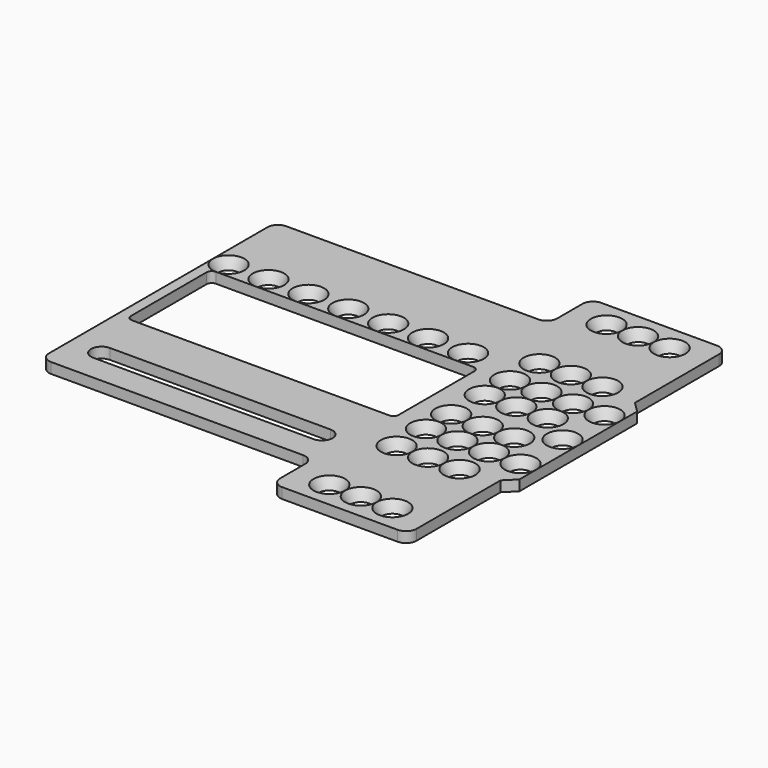
from build123d import *

# Parameters (mm, degrees)
SKETCH051_R             = 1
SKETCH050_R             = 1.5
SKETCH049_R             = 1
SKETCH048_R             = 1.5
SKETCH053_R             = 1
SKETCH052_R             = 1.5
SKETCH009_R             = 1
SKETCH008_R             = 1.5
LOFT004_PLACEMENT_ANGLE = 90
SKETCH011_R             = 1
SKETCH010_R             = 1.5
SKETCH012_R             = 1
SKETCH015_R             = 1.5
SKETCH017_R             = 1
SKETCH016_R             = 1.5
SKETCH014_R             = 1
SKETCH013_R             = 1.5
LOFT006_PLACEMENT_ANGLE = 90
SKETCH044_R             = 1
SKETCH047_R             = 1.5
SKETCH046_R             = 1
SKETCH045_R             = 1.5
SKETCH043_R             = 1
SKETCH042_R             = 1.5
LOFT021_PLACEMENT_ANGLE = 90
SKETCH039_R             = 1
SKETCH038_R             = 1.5
SKETCH035_R             = 1
SKETCH034_R             = 1.5
SKETCH041_R             = 1
SKETCH040_R             = 1.5
LOFT020_PLACEMENT_ANGLE = 90
SKETCH032_R             = 1
SKETCH037_R             = 1.5
SKETCH036_R             = 1
SKETCH033_R             = 1.5
SKETCH031_R             = 1
SKETCH030_R             = 1.5
LOFT015_PLACEMENT_ANGLE = 90
SKETCH027_R             = 1
SKETCH026_R             = 1.5
SKETCH025_R             = 1
SKETCH024_R             = 1.5
SKETCH029_R             = 1
SKETCH028_R             = 1.5
LOFT014_PLACEMENT_ANGLE = 90
SKETCH021_R             = 1
SKETCH020_R             = 1.5
SKETCH023_R             = 1
SKETCH022_R             = 1.5
SKETCH019_R             = 1
SKETCH018_R             = 1.5
LOFT009_PLACEMENT_ANGLE = 90
SKETCH007_R             = 1
SKETCH004_R             = 1.5
SKETCH001_R             = 1
SKETCH_R                = 1.5
SKETCH003_R             = 1
SKETCH002_R             = 1.5
LOFT001_PLACEMENT_ANGLE = 90
SKETCH006_R             = 1
SKETCH005_R             = 1.5
SKETCH075_R             = 1
SKETCH083_R             = 1.5
LOFT036_PLACEMENT_ANGLE = 90
SKETCH079_R             = 1
SKETCH078_R             = 1.5
LOFT037_PLACEMENT_ANGLE = 90
SKETCH074_R             = 1
SKETCH073_R             = 1.5
LOFT038_PLACEMENT_ANGLE = 90
SKETCH080_R             = 1
SKETCH076_R             = 1.5
LOFT039_PLACEMENT_ANGLE = 90
SKETCH082_R             = 1
SKETCH081_R             = 1.5
LOFT040_PLACEMENT_ANGLE = 90
SKETCH071_R             = 1
SKETCH070_R             = 1.5
LOFT034_PLACEMENT_ANGLE = 90
SKETCH077_R             = 1
SKETCH072_R             = 1.5
LOFT035_PLACEMENT_ANGLE = 90
EXTRUDE001_DEPTH        = 1
EXTRUDE003_DEPTH        = 1
EXTRUDE002_DEPTH        = 1
CUT010_PLACEMENT_ANGLE  = 180


with BuildPart() as loft094:
    # Sketch051 → Loft025 section 0
    with BuildSketch(Plane.XY):
        with Locations((2, 2)):
            Circle(SKETCH051_R)
    # Sketch050 → Loft025 section 1
    with BuildSketch(Plane.XY.offset(1)):
        with Locations((2, 2)):
            Circle(SKETCH050_R)
    loft()


with BuildPart() as loft094_1:
    # Loft025 placement: moved
    add(loft094.part.moved(Location((-1.5, 22, 0))))


with BuildPart() as loft093:
    # Sketch049 → Loft024 section 0
    with BuildSketch(Plane.XY):
        with Locations((2, 2)):
            Circle(SKETCH049_R)
    # Sketch048 → Loft024 section 1
    with BuildSketch(Plane.XY.offset(1)):
        with Locations((2, 2)):
            Circle(SKETCH048_R)
    loft()


with BuildPart() as loft093_1:
    # Loft024 placement: moved
    add(loft093.part.moved(Location((-1.5, 12, 0))))


with BuildPart() as fusion004:
    # Sketch053 → Loft026 section 0
    with BuildSketch(Plane.XY):
        with Locations((2, 2)):
            Circle(SKETCH053_R)
    # Sketch052 → Loft026 section 1
    with BuildSketch(Plane.XY.offset(1)):
        with Locations((2, 2)):
            Circle(SKETCH052_R)
    loft()


with BuildPart() as fusion004_1:
    # Loft026 placement: moved
    add(fusion004.part.moved(Location((-1.5, 17, 0))))

    # Fusion004: union Loft094, Loft093
    add(loft094_1.part)
    add(loft093_1.part)


with BuildPart() as loft074:
    # Sketch009 → Loft004 section 0
    with BuildSketch(Plane.XY):
        with Locations((2, 2)):
            Circle(SKETCH009_R)
    # Sketch008 → Loft004 section 1
    with BuildSketch(Plane.XY.offset(1)):
        with Locations((2, 2)):
            Circle(SKETCH008_R)
    loft()


with BuildPart() as loft074_1:
    # Loft004 placement: moved
    add(loft074.part.moved(Location((11.502, 33.5, 0))).rotate(Axis((11.502, 33.5, 0), (0, 0, 1)), LOFT004_PLACEMENT_ANGLE))


with BuildPart() as loft005:
    # Sketch011 → Loft005 section 0
    with BuildSketch(Plane.XY):
        with Locations((2, 2)):
            Circle(SKETCH011_R)
    # Sketch010 → Loft005 section 1
    with BuildSketch(Plane.XY.offset(1)):
        with Locations((2, 2)):
            Circle(SKETCH010_R)
    loft()


with BuildPart() as loft005_1:
    # Loft005 placement: moved
    add(loft005.part.moved(Location((1.5, 33.5, 0))))


with BuildPart() as loft076:
    # Sketch012 → Loft007 section 0
    with BuildSketch(Plane.XY):
        with Locations((2, 2)):
            Circle(SKETCH012_R)
    # Sketch015 → Loft007 section 1
    with BuildSketch(Plane.XY.offset(1)):
        with Locations((2, 2)):
            Circle(SKETCH015_R)
    loft()


with BuildPart() as loft076_1:
    # Loft007 placement: moved
    add(loft076.part.moved(Location((1.5, 25.5, 0))))


with BuildPart() as loft077:
    # Sketch017 → Loft008 section 0
    with BuildSketch(Plane.XY):
        with Locations((2, 2)):
            Circle(SKETCH017_R)
    # Sketch016 → Loft008 section 1
    with BuildSketch(Plane.XY.offset(1)):
        with Locations((2, 2)):
            Circle(SKETCH016_R)
    loft()


with BuildPart() as loft077_1:
    # Loft008 placement: moved
    add(loft077.part.moved(Location((4.501, 25.5, 0))))


with BuildPart() as loft075:
    # Sketch014 → Loft006 section 0
    with BuildSketch(Plane.XY):
        with Locations((2, 2)):
            Circle(SKETCH014_R)
    # Sketch013 → Loft006 section 1
    with BuildSketch(Plane.XY.offset(1)):
        with Locations((2, 2)):
            Circle(SKETCH013_R)
    loft()


with BuildPart() as loft075_1:
    # Loft006 placement: moved
    add(loft075.part.moved(Location((11.502, 25.5, 0))).rotate(Axis((11.502, 25.5, 0), (0, 0, 1)), LOFT006_PLACEMENT_ANGLE))


with BuildPart() as loft092:
    # Sketch044 → Loft023 section 0
    with BuildSketch(Plane.XY):
        with Locations((2, 2)):
            Circle(SKETCH044_R)
    # Sketch047 → Loft023 section 1
    with BuildSketch(Plane.XY.offset(1)):
        with Locations((2, 2)):
            Circle(SKETCH047_R)
    loft()


with BuildPart() as loft092_1:
    # Loft023 placement: moved
    add(loft092.part.moved(Location((1.5, 22, 0))))


with BuildPart() as loft091:
    # Sketch046 → Loft022 section 0
    with BuildSketch(Plane.XY):
        with Locations((2, 2)):
            Circle(SKETCH046_R)
    # Sketch045 → Loft022 section 1
    with BuildSketch(Plane.XY.offset(1)):
        with Locations((2, 2)):
            Circle(SKETCH045_R)
    loft()


with BuildPart() as loft091_1:
    # Loft022 placement: moved
    add(loft091.part.moved(Location((4.501, 22, 0))))


with BuildPart() as loft090:
    # Sketch043 → Loft021 section 0
    with BuildSketch(Plane.XY):
        with Locations((2, 2)):
            Circle(SKETCH043_R)
    # Sketch042 → Loft021 section 1
    with BuildSketch(Plane.XY.offset(1)):
        with Locations((2, 2)):
            Circle(SKETCH042_R)
    loft()


with BuildPart() as loft090_1:
    # Loft021 placement: moved
    add(loft090.part.moved(Location((11.503, 22, 0))).rotate(Axis((11.503, 22, 0), (0, 0, 1)), LOFT021_PLACEMENT_ANGLE))


with BuildPart() as loft088:
    # Sketch039 → Loft019 section 0
    with BuildSketch(Plane.XY):
        with Locations((2, 2)):
            Circle(SKETCH039_R)
    # Sketch038 → Loft019 section 1
    with BuildSketch(Plane.XY.offset(1)):
        with Locations((2, 2)):
            Circle(SKETCH038_R)
    loft()


with BuildPart() as loft088_1:
    # Loft019 placement: moved
    add(loft088.part.moved(Location((1.5, 18.999, 0))))


with BuildPart() as loft087:
    # Sketch035 → Loft018 section 0
    with BuildSketch(Plane.XY):
        with Locations((2, 2)):
            Circle(SKETCH035_R)
    # Sketch034 → Loft018 section 1
    with BuildSketch(Plane.XY.offset(1)):
        with Locations((2, 2)):
            Circle(SKETCH034_R)
    loft()


with BuildPart() as loft087_1:
    # Loft018 placement: moved
    add(loft087.part.moved(Location((4.501, 18.999, 0))))


with BuildPart() as loft089:
    # Sketch041 → Loft020 section 0
    with BuildSketch(Plane.XY):
        with Locations((2, 2)):
            Circle(SKETCH041_R)
    # Sketch040 → Loft020 section 1
    with BuildSketch(Plane.XY.offset(1)):
        with Locations((2, 2)):
            Circle(SKETCH040_R)
    loft()


with BuildPart() as loft089_1:
    # Loft020 placement: moved
    add(loft089.part.moved(Location((11.502, 18.999, 0))).rotate(Axis((11.502, 18.999, 0), (0, 0, 1)), LOFT020_PLACEMENT_ANGLE))


with BuildPart() as loft086:
    # Sketch032 → Loft017 section 0
    with BuildSketch(Plane.XY):
        with Locations((2, 2)):
            Circle(SKETCH032_R)
    # Sketch037 → Loft017 section 1
    with BuildSketch(Plane.XY.offset(1)):
        with Locations((2, 2)):
            Circle(SKETCH037_R)
    loft()


with BuildPart() as loft086_1:
    # Loft017 placement: moved
    add(loft086.part.moved(Location((1.5, 15.001, 0))))


with BuildPart() as loft085:
    # Sketch036 → Loft016 section 0
    with BuildSketch(Plane.XY):
        with Locations((2, 2)):
            Circle(SKETCH036_R)
    # Sketch033 → Loft016 section 1
    with BuildSketch(Plane.XY.offset(1)):
        with Locations((2, 2)):
            Circle(SKETCH033_R)
    loft()


with BuildPart() as loft085_1:
    # Loft016 placement: moved
    add(loft085.part.moved(Location((4.501, 15.001, 0))))


with BuildPart() as loft084:
    # Sketch031 → Loft015 section 0
    with BuildSketch(Plane.XY):
        with Locations((2, 2)):
            Circle(SKETCH031_R)
    # Sketch030 → Loft015 section 1
    with BuildSketch(Plane.XY.offset(1)):
        with Locations((2, 2)):
            Circle(SKETCH030_R)
    loft()


with BuildPart() as loft084_1:
    # Loft015 placement: moved
    add(loft084.part.moved(Location((11.502, 15.001, 0))).rotate(Axis((11.502, 15.001, 0), (0, 0, 1)), LOFT015_PLACEMENT_ANGLE))


with BuildPart() as loft082:
    # Sketch027 → Loft013 section 0
    with BuildSketch(Plane.XY):
        with Locations((2, 2)):
            Circle(SKETCH027_R)
    # Sketch026 → Loft013 section 1
    with BuildSketch(Plane.XY.offset(1)):
        with Locations((2, 2)):
            Circle(SKETCH026_R)
    loft()


with BuildPart() as loft082_1:
    # Loft013 placement: moved
    add(loft082.part.moved(Location((1.5, 12, 0))))


with BuildPart() as loft081:
    # Sketch025 → Loft012 section 0
    with BuildSketch(Plane.XY):
        with Locations((2, 2)):
            Circle(SKETCH025_R)
    # Sketch024 → Loft012 section 1
    with BuildSketch(Plane.XY.offset(1)):
        with Locations((2, 2)):
            Circle(SKETCH024_R)
    loft()


with BuildPart() as loft081_1:
    # Loft012 placement: moved
    add(loft081.part.moved(Location((4.501, 12, 0))))


with BuildPart() as loft083:
    # Sketch029 → Loft014 section 0
    with BuildSketch(Plane.XY):
        with Locations((2, 2)):
            Circle(SKETCH029_R)
    # Sketch028 → Loft014 section 1
    with BuildSketch(Plane.XY.offset(1)):
        with Locations((2, 2)):
            Circle(SKETCH028_R)
    loft()


with BuildPart() as loft083_1:
    # Loft014 placement: moved
    add(loft083.part.moved(Location((11.502, 12, 0))).rotate(Axis((11.502, 12, 0), (0, 0, 1)), LOFT014_PLACEMENT_ANGLE))


with BuildPart() as loft079:
    # Sketch021 → Loft010 section 0
    with BuildSketch(Plane.XY):
        with Locations((2, 2)):
            Circle(SKETCH021_R)
    # Sketch020 → Loft010 section 1
    with BuildSketch(Plane.XY.offset(1)):
        with Locations((2, 2)):
            Circle(SKETCH020_R)
    loft()


with BuildPart() as loft079_1:
    # Loft010 placement: moved
    add(loft079.part.moved(Location((1.5, 8.5, 0))))


with BuildPart() as loft080:
    # Sketch023 → Loft011 section 0
    with BuildSketch(Plane.XY):
        with Locations((2, 2)):
            Circle(SKETCH023_R)
    # Sketch022 → Loft011 section 1
    with BuildSketch(Plane.XY.offset(1)):
        with Locations((2, 2)):
            Circle(SKETCH022_R)
    loft()


with BuildPart() as loft080_1:
    # Loft011 placement: moved
    add(loft080.part.moved(Location((4.501, 8.5, 0))))


with BuildPart() as loft078:
    # Sketch019 → Loft009 section 0
    with BuildSketch(Plane.XY):
        with Locations((2, 2)):
            Circle(SKETCH019_R)
    # Sketch018 → Loft009 section 1
    with BuildSketch(Plane.XY.offset(1)):
        with Locations((2, 2)):
            Circle(SKETCH018_R)
    loft()


with BuildPart() as loft078_1:
    # Loft009 placement: moved
    add(loft078.part.moved(Location((11.502, 8.5, 0))).rotate(Axis((11.502, 8.5, 0), (0, 0, 1)), LOFT009_PLACEMENT_ANGLE))


with BuildPart() as loft072:
    # Sketch007 → Loft002 section 0
    with BuildSketch(Plane.XY):
        with Locations((2, 2)):
            Circle(SKETCH007_R)
    # Sketch004 → Loft002 section 1
    with BuildSketch(Plane.XY.offset(1)):
        with Locations((2, 2)):
            Circle(SKETCH004_R)
    loft()


with BuildPart() as loft072_1:
    # Loft002 placement: moved
    add(loft072.part.moved(Location((1.5, 0.5, 0))))


with BuildPart() as loft070:
    # Sketch001 → Loft section 0
    with BuildSketch(Plane.XY):
        with Locations((2, 2)):
            Circle(SKETCH001_R)
    # Sketch → Loft section 1
    with BuildSketch(Plane.XY.offset(1)):
        with Locations((2, 2)):
            Circle(SKETCH_R)
    loft()


with BuildPart() as loft070_1:
    # Loft placement: moved
    add(loft070.part.moved(Location((4.501, 0.5, 0))))


with BuildPart() as loft071:
    # Sketch003 → Loft001 section 0
    with BuildSketch(Plane.XY):
        with Locations((2, 2)):
            Circle(SKETCH003_R)
    # Sketch002 → Loft001 section 1
    with BuildSketch(Plane.XY.offset(1)):
        with Locations((2, 2)):
            Circle(SKETCH002_R)
    loft()


with BuildPart() as loft071_1:
    # Loft001 placement: moved
    add(loft071.part.moved(Location((11.502, 0.5, 0))).rotate(Axis((11.502, 0.5, 0), (0, 0, 1)), LOFT001_PLACEMENT_ANGLE))


with BuildPart() as fusion005:
    # Sketch006 → Loft003 section 0
    with BuildSketch(Plane.XY):
        with Locations((2, 2)):
            Circle(SKETCH006_R)
    # Sketch005 → Loft003 section 1
    with BuildSketch(Plane.XY.offset(1)):
        with Locations((2, 2)):
            Circle(SKETCH005_R)
    loft()


with BuildPart() as fusion005_1:
    # Loft003 placement: moved
    add(fusion005.part.moved(Location((4.501, 33.5, 0))))

    # Fusion003: union Loft074, Loft005, Loft076, Loft077, Loft075, Loft092, Loft091, Loft090, Loft088, Loft087, Loft089, Loft086, Loft085, Loft084, Loft082, Loft081, Loft083, Loft079, Loft080, Loft078, Loft072, Loft070, Loft071
    add(loft074_1.part)
    add(loft005_1.part)
    add(loft076_1.part)
    add(loft077_1.part)
    add(loft075_1.part)
    add(loft092_1.part)
    add(loft091_1.part)
    add(loft090_1.part)
    add(loft088_1.part)
    add(loft087_1.part)
    add(loft089_1.part)
    add(loft086_1.part)
    add(loft085_1.part)
    add(loft084_1.part)
    add(loft082_1.part)
    add(loft081_1.part)
    add(loft083_1.part)
    add(loft079_1.part)
    add(loft080_1.part)
    add(loft078_1.part)
    add(loft072_1.part)
    add(loft070_1.part)
    add(loft071_1.part)


with BuildPart() as fusion005_2:
    # Fusion003 placement: moved
    add(fusion005_1.part.moved(Location((0.001, 0, 0))))

    # Fusion005: union Fusion004
    add(fusion004_1.part)


with BuildPart() as loft105:
    # Sketch075 → Loft036 section 0
    with BuildSketch(Plane.XY):
        with Locations((2, 2)):
            Circle(SKETCH075_R)
    # Sketch083 → Loft036 section 1
    with BuildSketch(Plane.XY.offset(1)):
        with Locations((2, 2)):
            Circle(SKETCH083_R)
    loft()


with BuildPart() as loft105_1:
    # Loft036 placement: moved
    add(loft105.part.moved(Location((31.9, 10.5, 0))).rotate(Axis((31.9, 10.5, 0), (0, 0, 1)), LOFT036_PLACEMENT_ANGLE))


with BuildPart() as loft106:
    # Sketch079 → Loft037 section 0
    with BuildSketch(Plane.XY):
        with Locations((2, 2)):
            Circle(SKETCH079_R)
    # Sketch078 → Loft037 section 1
    with BuildSketch(Plane.XY.offset(1)):
        with Locations((2, 2)):
            Circle(SKETCH078_R)
    loft()


with BuildPart() as loft106_1:
    # Loft037 placement: moved
    add(loft106.part.moved(Location((35.7, 10.5, 0))).rotate(Axis((35.7, 10.5, 0), (0, 0, 1)), LOFT037_PLACEMENT_ANGLE))


with BuildPart() as loft107:
    # Sketch074 → Loft038 section 0
    with BuildSketch(Plane.XY):
        with Locations((2, 2)):
            Circle(SKETCH074_R)
    # Sketch073 → Loft038 section 1
    with BuildSketch(Plane.XY.offset(1)):
        with Locations((2, 2)):
            Circle(SKETCH073_R)
    loft()


with BuildPart() as loft107_1:
    # Loft038 placement: moved
    add(loft107.part.moved(Location((24.3, 10.5, 0))).rotate(Axis((24.3, 10.5, 0), (0, 0, 1)), LOFT038_PLACEMENT_ANGLE))


with BuildPart() as loft108:
    # Sketch080 → Loft039 section 0
    with BuildSketch(Plane.XY):
        with Locations((2, 2)):
            Circle(SKETCH080_R)
    # Sketch076 → Loft039 section 1
    with BuildSketch(Plane.XY.offset(1)):
        with Locations((2, 2)):
            Circle(SKETCH076_R)
    loft()


with BuildPart() as loft108_1:
    # Loft039 placement: moved
    add(loft108.part.moved(Location((28.1, 10.5, 0))).rotate(Axis((28.1, 10.5, 0), (0, 0, 1)), LOFT039_PLACEMENT_ANGLE))


with BuildPart() as loft109:
    # Sketch082 → Loft040 section 0
    with BuildSketch(Plane.XY):
        with Locations((2, 2)):
            Circle(SKETCH082_R)
    # Sketch081 → Loft040 section 1
    with BuildSketch(Plane.XY.offset(1)):
        with Locations((2, 2)):
            Circle(SKETCH081_R)
    loft()


with BuildPart() as loft109_1:
    # Loft040 placement: moved
    add(loft109.part.moved(Location((39.5, 10.5, 0))).rotate(Axis((39.5, 10.5, 0), (0, 0, 1)), LOFT040_PLACEMENT_ANGLE))


with BuildPart() as loft103:
    # Sketch071 → Loft034 section 0
    with BuildSketch(Plane.XY):
        with Locations((2, 2)):
            Circle(SKETCH071_R)
    # Sketch070 → Loft034 section 1
    with BuildSketch(Plane.XY.offset(1)):
        with Locations((2, 2)):
            Circle(SKETCH070_R)
    loft()


with BuildPart() as loft103_1:
    # Loft034 placement: moved
    add(loft103.part.moved(Location((20.5, 10.5, 0))).rotate(Axis((20.5, 10.5, 0), (0, 0, 1)), LOFT034_PLACEMENT_ANGLE))


with BuildPart() as fusion006:
    # Sketch077 → Loft035 section 0
    with BuildSketch(Plane.XY):
        with Locations((2, 2)):
            Circle(SKETCH077_R)
    # Sketch072 → Loft035 section 1
    with BuildSketch(Plane.XY.offset(1)):
        with Locations((2, 2)):
            Circle(SKETCH072_R)
    loft()


with BuildPart() as fusion006_1:
    # Loft035 placement: moved
    add(fusion006.part.moved(Location((16.7, 10.5, 0))).rotate(Axis((16.7, 10.5, 0), (0, 0, 1)), LOFT035_PLACEMENT_ANGLE))

    # Fusion001: union Loft105, Loft106, Loft107, Loft108, Loft109, Loft103
    add(loft105_1.part)
    add(loft106_1.part)
    add(loft107_1.part)
    add(loft108_1.part)
    add(loft109_1.part)
    add(loft103_1.part)

    # Fusion006: union Fusion005
    add(fusion005_2.part)


with BuildPart() as extrude001:
    # Sketch055 → Extrude001 (new body)
    with BuildSketch(Plane(origin=(0, 22, 0), x_dir=(1, 0, 0), z_dir=(0, 0, 1))):
        with BuildLine():
            ThreePointArc((36, 7), (37, 8), (36, 9))
            Line((15, 9), (36, 9))
            ThreePointArc((15, 9), (14, 8), (15, 7))
            Line((15, 7), (36, 7))
        make_face()
    extrude(amount=EXTRUDE001_DEPTH)


with BuildPart() as extrude001_1:
    # Extrude001 placement: moved
    add(extrude001.part.moved(Location((0, -0.5, 0))))


with BuildPart() as fusion002:
    # Sketch085 → Extrude003 (new body)
    with BuildSketch(Plane.XY):
        with BuildLine():
            Line((13, 24), (37.5, 24))
            ThreePointArc((38, 23.5), (37.853553, 23.853553), (37.5, 24))
            Line((38, 14.5), (38, 23.5))
            ThreePointArc((37.5, 14), (37.853553, 14.146447), (38, 14.5))
            Line((13, 14), (37.5, 14))
            ThreePointArc((12.5, 14.5), (12.646447, 14.146447), (13, 14))
            Line((12.5, 23.5), (12.5, 14.5))
            ThreePointArc((13, 24), (12.646447, 23.853553), (12.5, 23.5))
        make_face()
    extrude(amount=EXTRUDE003_DEPTH)

    # Fusion002: union Extrude001
    add(extrude001_1.part)


with BuildPart() as obj1:
    # Sketch084 → Extrude002 (new body)
    with BuildSketch(Plane.XY):
        with BuildLine():
            ThreePointArc((0, 1), (0.292893, 0.292893), (1, 0))
            Line((1, 0), (12, 0))
            ThreePointArc((12, 0), (12.707107, 0.292893), (13, 1))
            Line((13, 1), (13, 4))
            ThreePointArc((14, 5), (13.292893, 4.707107), (13, 4))
            Line((14, 5), (38, 5))
            ThreePointArc((38, 5), (38.707107, 5.292893), (39, 6))
            Line((39, 6), (39, 32))
            ThreePointArc((39, 32), (38.707107, 32.707107), (38, 33))
            Line((38, 33), (14, 33))
            ThreePointArc((13, 34), (13.292893, 33.292893), (14, 33))
            Line((13, 34), (13, 37))
            ThreePointArc((13, 37), (12.707107, 37.707107), (12, 38))
            Line((12, 38), (1.000001, 38))
            ThreePointArc((1.000001, 38), (0.292893, 37.707107), (0, 37))
            Line((0, 37), (0, 27))
            Line((0, 27), (-1, 26))
            Line((-1, 26), (-1, 12))
            Line((-1, 12), (0, 11))
            Line((0, 11), (0, 1))
        make_face()
    extrude(amount=EXTRUDE002_DEPTH)

    # Cut: cut Fusion002
    add(fusion002.part, mode=Mode.SUBTRACT)

    # Cut010: cut Fusion006
    add(fusion006_1.part, mode=Mode.SUBTRACT)


with BuildPart() as obj1_1:
    # Cut010 placement: moved
    add(obj1.part.moved(Location((66, 19, 1))).rotate(Axis((66, 19, 1), (0, 0, 1)), CUT010_PLACEMENT_ANGLE))


solid = obj1_1.part
